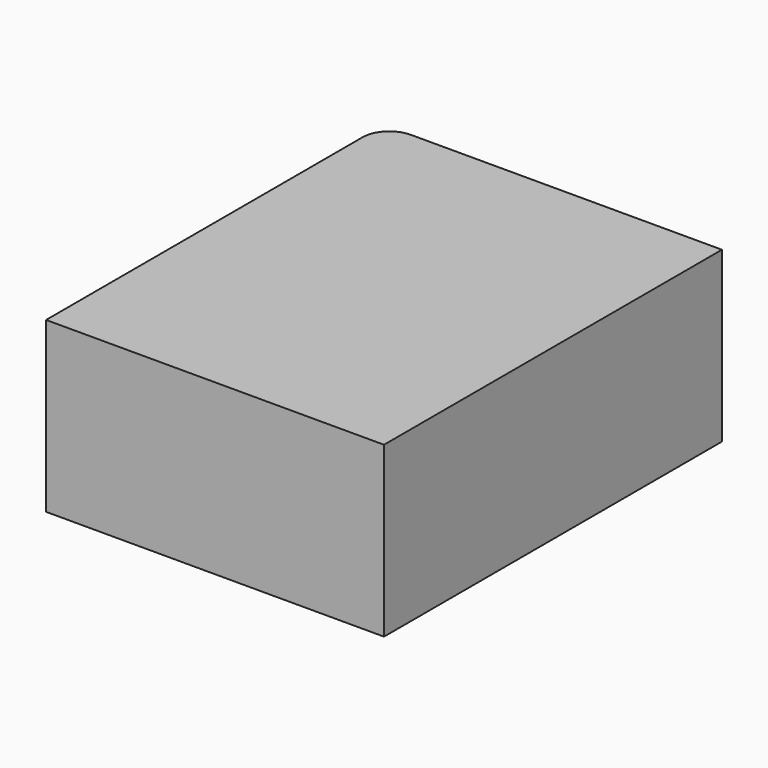
from build123d import *

# Parameters (mm, degrees)
F1_DEPTH = 40


with BuildPart() as f1:
    # F0 (on Top) → F1 (new body)
    with BuildSketch(Plane.XY):
        with BuildLine():
            Line((80, 0), (6.35, 0))
            ThreePointArc((6.35, 0), (1.859872, -1.859872), (0, -6.35))
            Line((0, -6.35), (0, -100))
            Line((0, -100), (80, -100))
            Line((80, -100), (80, 0))
        make_face()
    extrude(amount=-F1_DEPTH)


solid = f1.part
